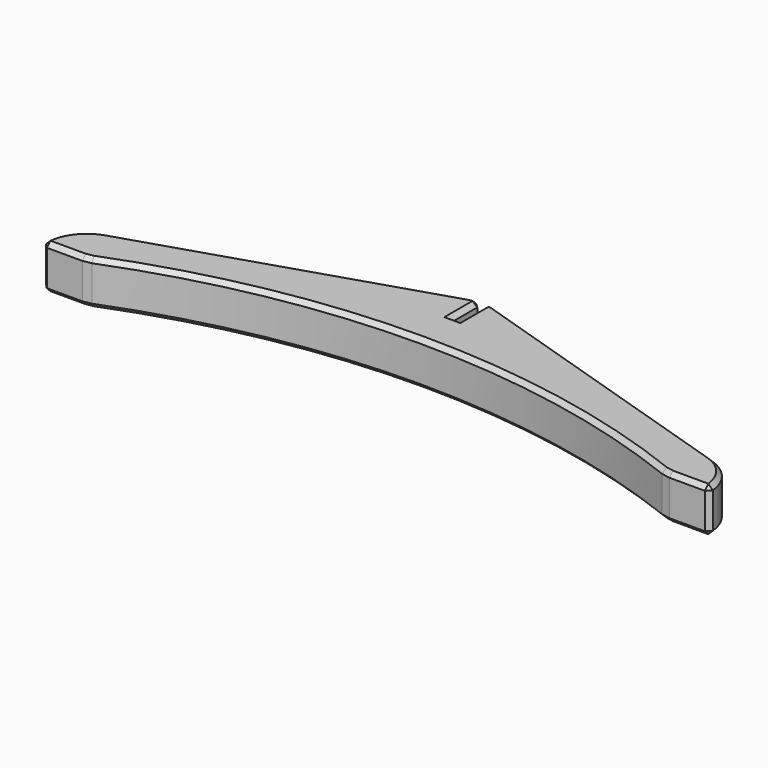
from build123d import *

# Parameters (mm, degrees)
PAD_DEPTH    = 10
CHAMFER_SIZE = 1


with BuildPart() as part:
    # Sketch → Pad (new body)
    with BuildSketch(Plane.XY):
        with BuildLine():
            Line((-0.8, 8), (-0.8, 0))
            Line((-0.8, 0), (0.8, 0))
            Line((0.8, 8), (0.8, 0))
            ThreePointArc((3.222844, 7.624292), (2.025901, 7.905515), (0.8, 8))
            Line((3.222844, 7.624292), (68.028555, -12.969635))
            ThreePointArc((75, -22.5), (73.071107, -16.595999), (68.028555, -12.969635))
            Line((75, -22.5), (65, -22.5))
            ThreePointArc((65, -22.5), (0, -10), (-65, -22.5))
            Line((-75, -22.5), (-65, -22.5))
            ThreePointArc((-68.028555, -12.969635), (-73.071107, -16.595999), (-75, -22.5))
            Line((-3.222844, 7.624292), (-68.028555, -12.969635))
            ThreePointArc((-0.8, 8), (-2.025901, 7.905515), (-3.222844, 7.624292))
        make_face()
    extrude(amount=PAD_DEPTH)

    # Chamfer
    chamfer_edges = [part.edges().sort_by_distance(p)[0] for p in [
        (-2.025901, 7.905515, 10),
        (-0.8, 4, 10),
        (0, 0, 10),
        (0.8, 4, 10),
        (2.025901, 7.905515, 10),
        (35.625699, -2.672672, 10),
        (73.071107, -16.595999, 10),
        (70, -22.5, 10),
        (0, -10, 10),
        (-70, -22.5, 10),
        (-73.071107, -16.595999, 10),
        (-35.625699, -2.672672, 10),
        (-2.025901, 7.905515, 0),
        (-0.8, 4, 0),
        (0, 0, 0),
        (0.8, 4, 0),
        (2.025901, 7.905515, 0),
        (35.625699, -2.672672, 0),
        (73.071107, -16.595999, 0),
        (70, -22.5, 0),
        (0, -10, 0),
        (-70, -22.5, 0),
        (-73.071107, -16.595999, 0),
        (-35.625699, -2.672672, 0),
        (-0.8, 8, 5),
        (0.8, 8, 5),
        (-75, -22.5, 5),
        (-65, -22.5, 5),
        (65, -22.5, 5),
        (75, -22.5, 5),
    ]]
    chamfer(chamfer_edges, length=CHAMFER_SIZE)


solid = part.part
